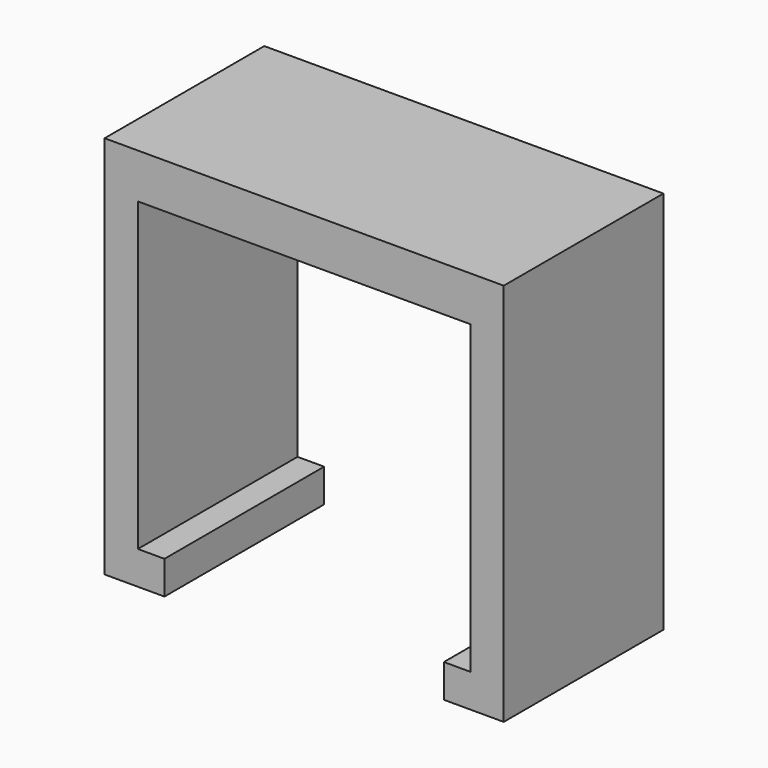
from build123d import *

# Parameters (mm, degrees)
F0_W      = 35
F0_H      = 15
F1_DEPTH  = 7.366
F2_W      = 5
F2_H      = 15
F3_DEPTH  = 28
F4_W      = 5
F4_H      = 15
F5_DEPTH  = 28
F7_W      = 15
F7_H      = 5
F8_DEPTH  = 2
F6_W      = 15
F6_H      = 5
F9_DEPTH  = 2
F10_DEPTH = 4
F11_DEPTH = 2.5
F12_DEPTH = 2.5
F13_DEPTH = 2.5


with BuildPart() as f1:
    # F0 (on Top) → F1 (new body)
    with BuildSketch(Plane.XY):
        with Locations((-18.1619706172, -22.7490997307)):
            Rectangle(F0_W, F0_H)
    extrude(amount=-F1_DEPTH)

    # F2 (on face) → F3 (join)
    with BuildSketch(Plane(origin=(0, 0, -7.366), x_dir=(1, 0, 0), z_dir=(0, 0, -1))):
        with Locations((-33.1619706172, 22.7490997307)):
            Rectangle(F2_W, F2_H)
    extrude(amount=F3_DEPTH)

    # F4 (on face) → F5 (join)
    with BuildSketch(Plane(origin=(0, 0, -7.366), x_dir=(1, 0, 0), z_dir=(0, 0, -1))):
        with Locations((-3.1619706172, 22.7490997307)):
            Rectangle(F4_W, F4_H)
    extrude(amount=F5_DEPTH)

    # F7 (on face) → F8 (join)
    with BuildSketch(Plane.YZ.offset(-30.6619706172)):
        with Locations((-22.7490997307, -32.866)):
            Rectangle(F7_W, F7_H)
    extrude(amount=F8_DEPTH)

    # F6 (on face) → F9 (join)
    with BuildSketch(Plane(origin=(-5.6619706172, 0, 0), x_dir=(0, -1, 0), z_dir=(-1, 0, 0))):
        with Locations((22.7490997307, -32.866)):
            Rectangle(F6_W, F6_H)
    extrude(amount=F9_DEPTH)

    # F10 (cut): a face of the model
    f10_faces = [f1.faces().sort_by_distance(p)[0] for p in [
        (-18.1619706172, -22.7490997307, 0),
    ]]
    extrude(f10_faces, amount=-F10_DEPTH, mode=Mode.SUBTRACT)

    # F11 (cut): a face of the model
    f11_faces = [f1.faces().sort_by_distance(p)[0] for p in [
        (-0.6619706172, -22.7490997307, -19.683),
    ]]
    extrude(f11_faces, amount=-F11_DEPTH, mode=Mode.SUBTRACT)

    # F12 (cut): a face of the model
    f12_faces = [f1.faces().sort_by_distance(p)[0] for p in [
        (-35.6619706172, -22.7490997307, -19.683),
    ]]
    extrude(f12_faces, amount=-F12_DEPTH, mode=Mode.SUBTRACT)

    # F13 (cut): faces of the model
    f13_faces = [f1.faces().sort_by_distance(p)[0] for p in [
        (-30.9119706172, -22.7490997307, -35.366),
        (-5.4119706172, -22.7490997307, -35.366),
    ]]
    extrude(f13_faces, amount=-F13_DEPTH, mode=Mode.SUBTRACT)


solid = f1.part
